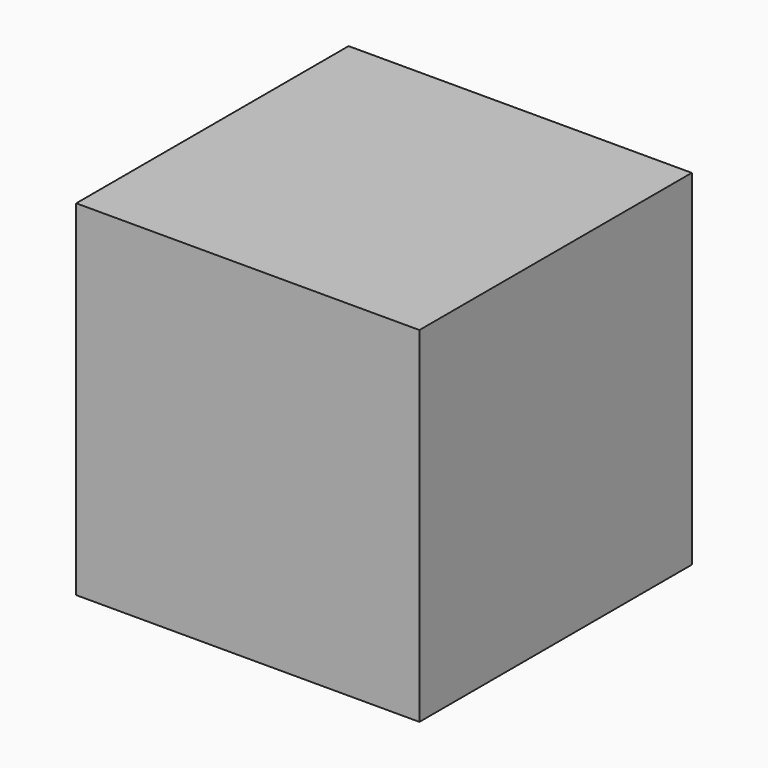
from build123d import *

# Parameters (mm, degrees)
F0_W     = 37.8968
F0_H     = 35.3266112506
F1_DEPTH = 75.184


with BuildPart() as f1:
    # F0 (on Front) → F1 (new body)
    with BuildSketch(Plane.XZ):
        with Locations((-18.9484, 17.6633056253)):
            Rectangle(F0_W, F0_H)
        Polygon((-75.7936, 0), (-37.8968, 0), (-37.8968, 35.3266112506), (0, 35.3266112506), (0, 76.1909037828), (-75.7936, 76.1909037828), align=None)
    extrude(amount=F1_DEPTH)


solid = f1.part
